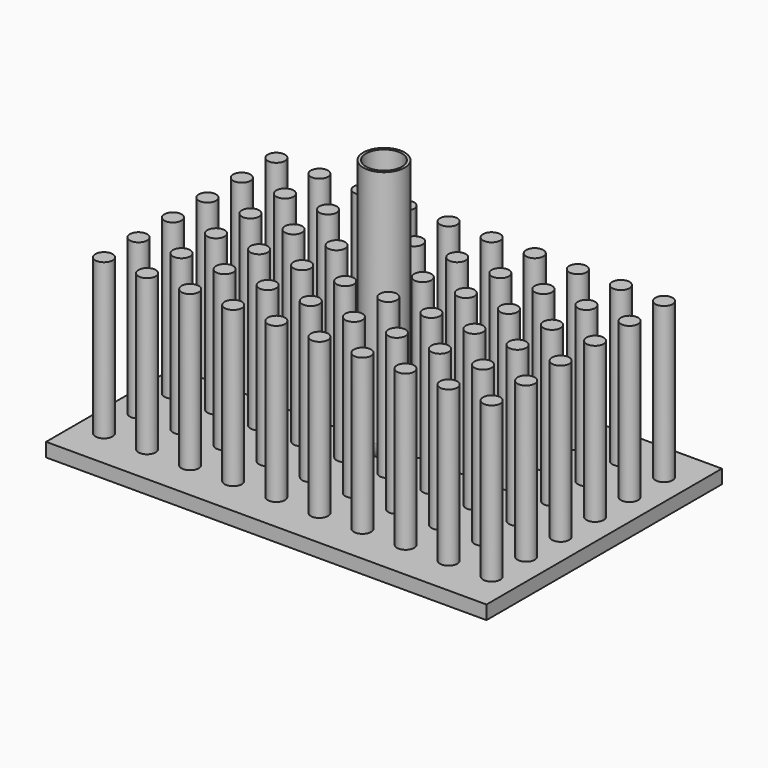
from build123d import *

# Parameters (mm, degrees)
F2_W     = 127.8
F2_H     = 85.4
F3_DEPTH = 4
F4_R     = 2.5
F5_DEPTH = 45


with BuildPart() as f1:
    # F0 (on Front) → F1 (revolve)
    with BuildSketch(Plane.XZ):
        with BuildLine():
            ThreePointArc((0, 0), (4.242641, 1.757359), (6, 6))
            Line((6, 6), (6, 75.4))
            Line((6, 75.4), (5.2, 75.4))
            Line((5.2, 75.4), (5.2, 6))
            ThreePointArc((5.2, 6), (3.676955, 2.323045), (0, 0.8))
            Line((0, 0.8), (0, 0))
        make_face()
    revolve(axis=Axis((0, 0, 35.822567), (0, 0, 1)))

    # F2 (on Top) → F3 (join)
    with BuildSketch(Plane.XY):
        Rectangle(F2_W, F2_H)
    extrude(amount=-F3_DEPTH)

    # F4 (on face) → F5 (join)
    with BuildSketch(Plane.XY):
        with Locations((-56.25, 31.25)):
            Circle(F4_R)
        with Locations((-56.25, 18.75)):
            Circle(F4_R)
        with Locations((-56.25, 6.25)):
            Circle(F4_R)
        with Locations((-56.25, -6.25)):
            Circle(F4_R)
        with Locations((-56.25, -18.75)):
            Circle(F4_R)
        with Locations((-56.25, -31.25)):
            Circle(F4_R)
        with Locations((-43.75, 31.25)):
            Circle(F4_R)
        with Locations((-43.75, 18.75)):
            Circle(F4_R)
        with Locations((-43.75, 6.25)):
            Circle(F4_R)
        with Locations((-43.75, -6.25)):
            Circle(F4_R)
        with Locations((-43.75, -18.75)):
            Circle(F4_R)
        with Locations((-43.75, -31.25)):
            Circle(F4_R)
        with Locations((-31.25, 31.25)):
            Circle(F4_R)
        with Locations((-31.25, 18.75)):
            Circle(F4_R)
        with Locations((-31.25, 6.25)):
            Circle(F4_R)
        with Locations((-31.25, -6.25)):
            Circle(F4_R)
        with Locations((-31.25, -18.75)):
            Circle(F4_R)
        with Locations((-31.25, -31.25)):
            Circle(F4_R)
        with Locations((-18.75, 31.25)):
            Circle(F4_R)
        with Locations((-18.75, 18.75)):
            Circle(F4_R)
        with Locations((-18.75, 6.25)):
            Circle(F4_R)
        with Locations((-18.75, -6.25)):
            Circle(F4_R)
        with Locations((-18.75, -18.75)):
            Circle(F4_R)
        with Locations((-18.75, -31.25)):
            Circle(F4_R)
        with Locations((-6.25, 31.25)):
            Circle(F4_R)
        with Locations((-6.25, 18.75)):
            Circle(F4_R)
        with Locations((-6.25, 6.25)):
            Circle(F4_R)
        with Locations((-6.25, -6.25)):
            Circle(F4_R)
        with Locations((-6.25, -18.75)):
            Circle(F4_R)
        with Locations((-6.25, -31.25)):
            Circle(F4_R)
        with Locations((6.25, 31.25)):
            Circle(F4_R)
        with Locations((6.25, 18.75)):
            Circle(F4_R)
        with Locations((6.25, 6.25)):
            Circle(F4_R)
        with Locations((6.25, -6.25)):
            Circle(F4_R)
        with Locations((6.25, -18.75)):
            Circle(F4_R)
        with Locations((6.25, -31.25)):
            Circle(F4_R)
        with Locations((18.75, 31.25)):
            Circle(F4_R)
        with Locations((18.75, 18.75)):
            Circle(F4_R)
        with Locations((18.75, 6.25)):
            Circle(F4_R)
        with Locations((18.75, -6.25)):
            Circle(F4_R)
        with Locations((18.75, -18.75)):
            Circle(F4_R)
        with Locations((18.75, -31.25)):
            Circle(F4_R)
        with Locations((31.25, 31.25)):
            Circle(F4_R)
        with Locations((31.25, 18.75)):
            Circle(F4_R)
        with Locations((31.25, 6.25)):
            Circle(F4_R)
        with Locations((31.25, -6.25)):
            Circle(F4_R)
        with Locations((31.25, -18.75)):
            Circle(F4_R)
        with Locations((31.25, -31.25)):
            Circle(F4_R)
        with Locations((43.75, 31.25)):
            Circle(F4_R)
        with Locations((43.75, 18.75)):
            Circle(F4_R)
        with Locations((43.75, 6.25)):
            Circle(F4_R)
        with Locations((43.75, -6.25)):
            Circle(F4_R)
        with Locations((43.75, -18.75)):
            Circle(F4_R)
        with Locations((43.75, -31.25)):
            Circle(F4_R)
        with Locations((56.25, 31.25)):
            Circle(F4_R)
        with Locations((56.25, 18.75)):
            Circle(F4_R)
        with Locations((56.25, 6.25)):
            Circle(F4_R)
        with Locations((56.25, -6.25)):
            Circle(F4_R)
        with Locations((56.25, -18.75)):
            Circle(F4_R)
        with Locations((56.25, -31.25)):
            Circle(F4_R)
    extrude(amount=F5_DEPTH)


solid = f1.part
